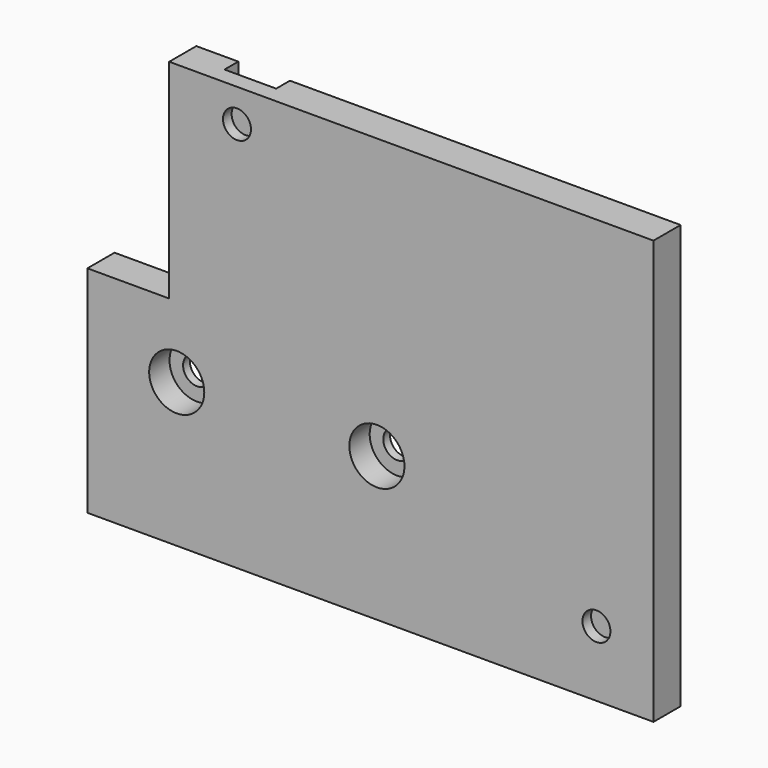
from build123d import *

# Parameters (mm, degrees)
F1_DEPTH       = 4
F3_D           = 3.3
F3_CBORE_D     = 6.5
F3_CBORE_DEPTH = 3
F5_W           = 6.096
F5_H           = 15.1188707026
F5_H_2         = 6.096
F6_DEPTH       = 2.032
F4_R           = 1.651
F7_DEPTH       = 1.27


with BuildPart() as f1:
    # F0 (on Front) → F1 (new body)
    with BuildSketch(Plane.XZ):
        Polygon((44.45, 74), (-12.7, 74), (-12.7, 49.4), (-22.352, 49.4), (-22.352, 24), (44.45, 24), align=None)
    extrude(amount=F1_DEPTH)

    # F3 (through all)
    with Locations(Plane.XZ.offset(4)):
        with Locations((-11.811, 41), (11.811, 41)):
            CounterBoreHole(F3_D / 2, F3_CBORE_D / 2, F3_CBORE_DEPTH)

    # F5 (on face) → F6 (cut)
    with BuildSketch(Plane(origin=(0, 0, 0), x_dir=(-1, 0, 0), z_dir=(0, 1, 0))):
        with Locations((4.699, 74.6198353513)):
            Rectangle(F5_W, F5_H)
        with Locations((-37.719, 31.7544)):
            Rectangle(F5_W, F5_H_2)
    extrude(amount=-F6_DEPTH, mode=Mode.SUBTRACT)

    # F4 (on face) → F7 (cut)
    with BuildSketch(Plane.XZ.offset(4)):
        with Locations((37.719, 31.7544)):
            Circle(F4_R)
        with Locations((-4.699, 70.1084)):
            Circle(F4_R)
    extrude(amount=-F7_DEPTH, mode=Mode.SUBTRACT)


solid = f1.part
